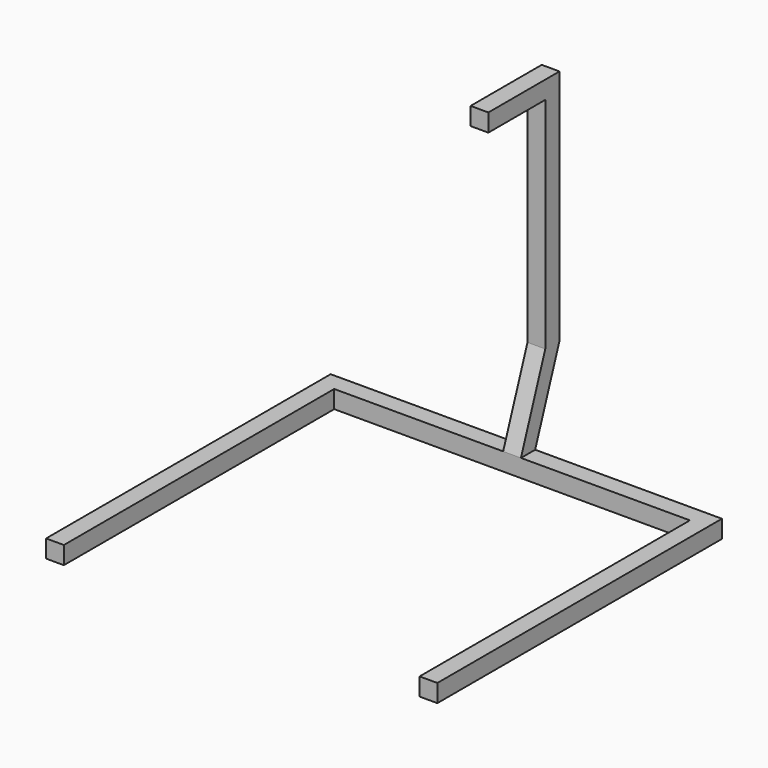
from build123d import *

# Parameters (mm, degrees)
F1_DEPTH = 76.2
F3_DEPTH = 38.1


with BuildPart() as f1:
    # F0 (on Top) → F1 (new body)
    with BuildSketch(Plane.XY):
        Polygon((-838.2, 457.2), (-838.2, -1066.8), (-762, -1066.8), (-762, 381), (762, 381), (762, -1066.8), (838.2, -1066.8), (838.2, 457.2), align=None)
    extrude(amount=F1_DEPTH)

    # F2 (on Right) → F3 (join, symmetric)
    with BuildSketch(Plane.YZ):
        Polygon((381, 0), (457.2, 0), (457.2, 76.2), (587.509675, 434.222889), (587.509675, 1450.222889), (206.509675, 1450.222889), (206.509675, 1374.022889), (511.309675, 1374.022889), (511.309675, 434.222889), (381, 76.2), align=None)
    extrude(amount=F3_DEPTH, both=True)


solid = f1.part
